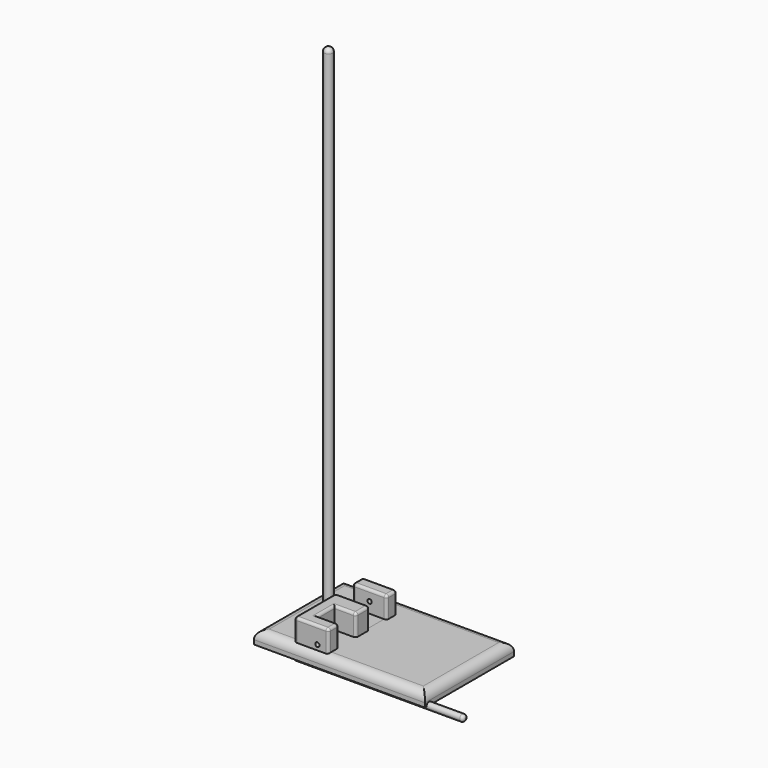
from build123d import *

# Parameters (mm, degrees)
F0_W      = 200
F0_H      = 130
F0_R      = 5
F1_DEPTH  = 15
F2_DEPTH  = 600
F3_R      = 10
F4_R      = 4.9056819587
F6_DEPTH  = 40
F7_W      = 25
F7_H      = 25
F8_DEPTH  = 40
F10_D     = 5
F10_DEPTH = 15
F10_TIP   = 1.5021515476
F12_D     = 5
F12_DEPTH = 15
F12_TIP   = 1.5021515476
F13_R     = 3
F14_R     = 3.875
F15_DEPTH = 200
F16_R     = 3.5


with BuildPart() as f1:
    # F0 (on Top) → F1 (new body)
    with BuildSketch(Plane.XY):
        with Locations((57.5707746297, 59.1300514607)):
            Rectangle(F0_W, F0_H)
        with Locations((-7.4292253703, 59.1300514607)):
            Circle(F0_R, mode=Mode.SUBTRACT)
    extrude(amount=F1_DEPTH)

    # F0 (on Top) → F2 (join)
    with BuildSketch(Plane.XY):
        with Locations((-7.4292253703, 59.1300514607)):
            Circle(F0_R)
    extrude(amount=F2_DEPTH)

    # F3
    f3_edges = [f1.edges().sort_by_distance(p)[0] for p in [
        (157.570775, 59.130051, 15),
        (57.570775, 124.130051, 15),
        (-42.429225, 59.130051, 15),
        (57.570775, -5.869949, 15),
        (-12.429225, 59.130051, 15),
    ]]
    fillet(f3_edges, radius=F3_R)

    # F4
    f4_edges = [f1.edges().sort_by_distance(p)[0] for p in [
        (-12.429225, 59.130051, 600),
    ]]
    fillet(f4_edges, radius=F4_R)


with BuildPart() as f6:
    # F5 (on Right) → F6 (new body)
    with BuildSketch(Plane.YZ):
        Polygon((0, 40), (0, 0), (100, 0), (100, 40), (85, 40), (85, 15), (60, 15), (60, 40), align=None)
    extrude(amount=F6_DEPTH)

    # F7 (on face) → F8 (cut)
    with BuildSketch(Plane.XY.offset(40)):
        with Locations((27.5, 27.5)):
            Rectangle(F7_W, F7_H)
    extrude(amount=-F8_DEPTH, mode=Mode.SUBTRACT)

    # F10
    with Locations(Plane.XZ):
        with Locations((27.0274095237, 20)):
            Hole(F10_D / 2, depth=F10_DEPTH)
            with Locations((0, 0, -(F10_DEPTH + F10_TIP / 2))):  # 118° drill point
                Cone(0, F10_D / 2, F10_TIP, mode=Mode.SUBTRACT)

    # F12
    with Locations(Plane(origin=(0, 100, 0), x_dir=(-1, 0, 0), z_dir=(0, 1, 0))):
        with Locations((-20, 27.7899727225)):
            Hole(F12_D / 2, depth=F12_DEPTH)
            with Locations((0, 0, -(F12_DEPTH + F12_TIP / 2))):  # 118° drill point
                Cone(0, F12_D / 2, F12_TIP, mode=Mode.SUBTRACT)

    # F13
    f13_edges = [f6.edges().sort_by_distance(p)[0] for p in [
        (0, 30, 40),
        (20, 0, 40),
        (40, 7.5, 40),
        (27.5, 15, 40),
        (15, 27.5, 40),
        (27.5, 40, 40),
        (40, 50, 40),
        (20, 60, 40),
        (20, 100, 40),
        (20, 85, 40),
        (0, 92.5, 40),
        (40, 92.5, 40),
        (0, 0, 20),
        (0, 50, 0),
        (0, 100, 20),
        (0, 85, 27.5),
        (0, 72.5, 15),
        (0, 60, 27.5),
        (20, 100, 0),
        (40, 70, 0),
        (27.5, 40, 0),
        (15, 27.5, 0),
        (27.5, 15, 0),
        (40, 7.5, 0),
        (20, 0, 0),
        (40, 15, 20),
        (40, 0, 20),
        (40, 60, 27.5),
        (40, 72.5, 15),
        (40, 85, 27.5),
        (40, 100, 20),
        (40, 40, 20),
    ]]
    fillet(f13_edges, radius=F13_R)


with BuildPart() as f15:
    # F14 (on Right) → F15 (new body)
    with BuildSketch(Plane.YZ):
        Circle(F14_R)
    extrude(amount=F15_DEPTH)

    # F16
    f16_edges = [f15.edges().sort_by_distance(p)[0] for p in [
        (0, -3.875, 0),
        (200, -3.875, 0),
    ]]
    fillet(f16_edges, radius=F16_R)


solid = Compound([f1.part, f6.part, f15.part])
